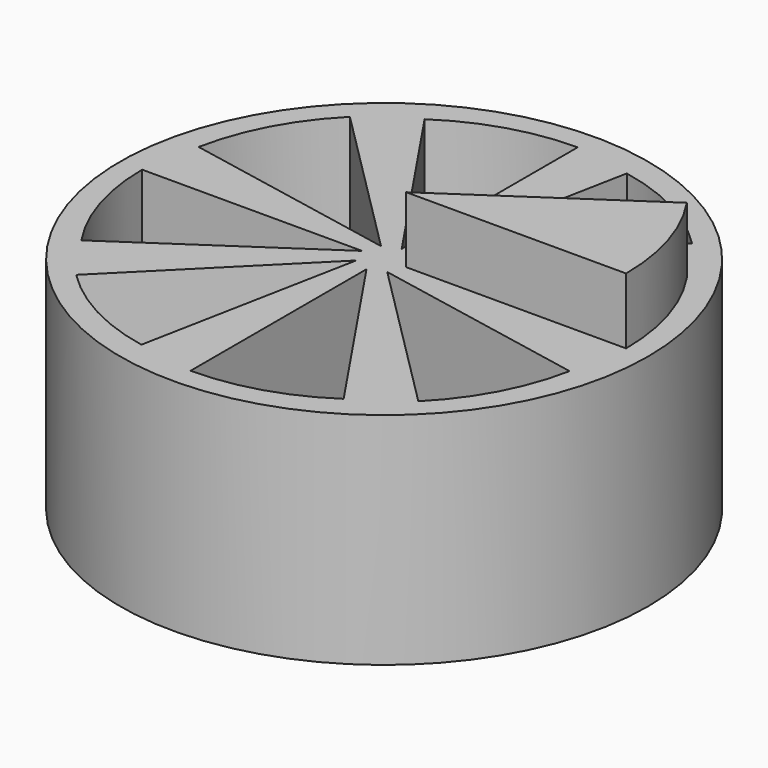
from build123d import *

# Parameters (mm, degrees)
CYLINDER001_W     = 10
CYLINDER001_H     = 12
CYLINDER001_ANGLE = 34
ARRAY_COUNT       = 8
CYLINDER_R        = 12
CYLINDER_DEPTH    = 10
CYLINDER002_W     = 10
CYLINDER002_H     = 12
CYLINDER002_ANGLE = 34


with BuildPart() as array:
    # Cylinder001 → Cylinder001 (revolve)
    with BuildSketch(Plane(origin=(1, 0, 1), x_dir=(1, 0, 0), z_dir=(0, -1, 0))):
        with Locations((5, 6)):
            Rectangle(CYLINDER001_W, CYLINDER001_H)
    revolve(axis=Axis((1, 0, 1), (0, 0, 1)), revolution_arc=CYLINDER001_ANGLE)

    # Array: Array ×8 about axis
    array_axis = Axis((0, 0, 0), (0, 0, 1))


with BuildPart() as array_1:
    add(array.part)
    for i in range(1, ARRAY_COUNT):
        add(array.part.rotate(array_axis, i * 360 / ARRAY_COUNT))


with BuildPart() as cut:
    # Cylinder → Cylinder (new body)
    with BuildSketch(Plane.XY):
        Circle(CYLINDER_R)
    extrude(amount=CYLINDER_DEPTH)

    # Cut: cut Array
    add(array_1.part, mode=Mode.SUBTRACT)


with BuildPart() as cylinder002:
    # Cylinder002 → Cylinder002 (revolve)
    with BuildSketch(Plane(origin=(1, 0, 1), x_dir=(1, 0, 0), z_dir=(0, -1, 0))):
        with Locations((5, 6)):
            Rectangle(CYLINDER002_W, CYLINDER002_H)
    revolve(axis=Axis((1, 0, 1), (0, 0, 1)), revolution_arc=CYLINDER002_ANGLE)


solid = Compound([cut.part, cylinder002.part])
